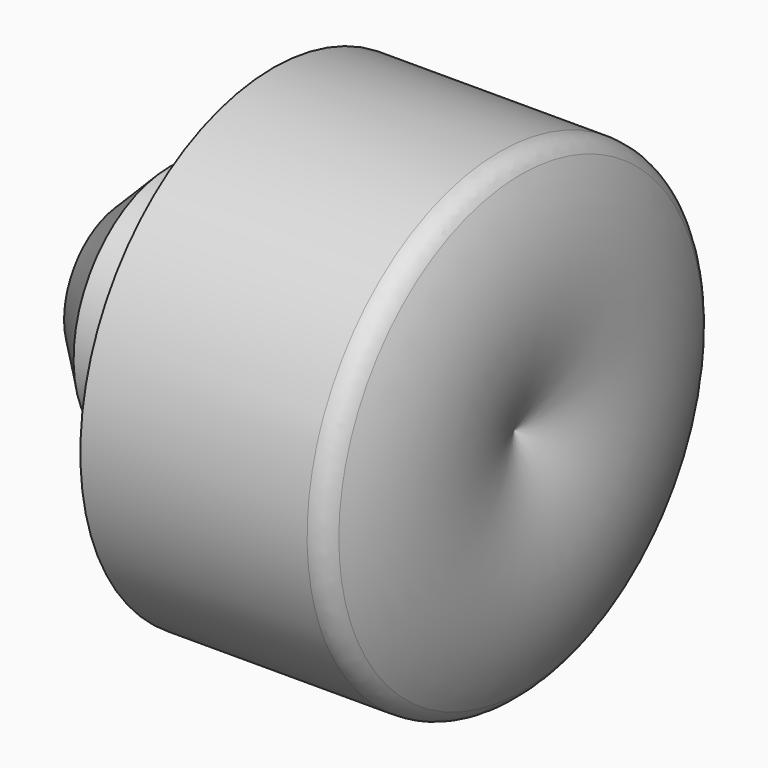
from build123d import *

# Parameters (mm, degrees)
F2_SIZE  = 1
F3_R     = 0.5
F6_DEPTH = 3.4


with BuildPart() as f1:
    # F0 (on Front) → F1 (revolve)
    with BuildSketch(Plane.XZ):
        with BuildLine():
            Line((0, 5.08), (0, 2.54))
            Line((0, 2.54), (-3.175, 2.54))
            Line((-3.175, 2.54), (-3.175, 0))
            Line((-3.175, 0), (5.08, 0))
            ThreePointArc((5.08, 0), (5.760591, 2.54), (5.08, 5.08))
            Line((5.08, 5.08), (0, 5.08))
        make_face()
    revolve(axis=Axis((-24.371815, 0, 0), (-1, 0, 0)))

    # F2
    f2_edges = [f1.edges().sort_by_distance(p)[0] for p in [
        (-3.175, 0, -2.54),
    ]]
    chamfer(f2_edges, length=F2_SIZE)

    # F3
    f3_edges = [f1.edges().sort_by_distance(p)[0] for p in [
        (5.08, 0, -5.08),
    ]]
    fillet(f3_edges, radius=F3_R)

    # F5 (on offset) → F6 (cut)
    with BuildSketch(Plane.YZ.offset(4.5)):
        Polygon((0, -3.117691), (2.7, -1.558846), (2.7, 1.558846), (0, 3.117691), (-2.7, 1.558846), (-2.7, -1.558846), align=None)
    extrude(amount=-F6_DEPTH, mode=Mode.SUBTRACT)


solid = f1.part
